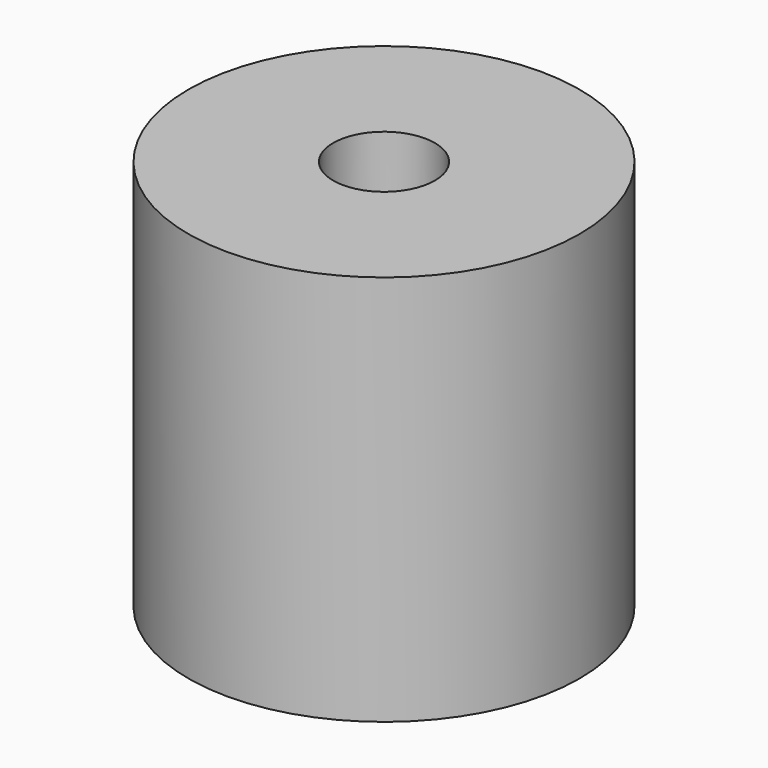
from build123d import *

# Parameters (mm, degrees)
F0_R     = 25
F1_DEPTH = 50
F2_R     = 6.5
F3_DEPTH = 50
F4_R     = 12.5
F5_DEPTH = 35


with BuildPart() as f1:
    # F0 (on Top) → F1 (new body)
    with BuildSketch(Plane.XY):
        Circle(F0_R)
    extrude(amount=F1_DEPTH)

    # F2 (on face) → F3 (cut)
    with BuildSketch(Plane.XY.offset(50)):
        Circle(F2_R)
    extrude(amount=-F3_DEPTH, mode=Mode.SUBTRACT)

    # F4 (on face) → F5 (cut)
    with BuildSketch(Plane(origin=(0, 0, 0), x_dir=(1, 0, 0), z_dir=(0, 0, -1))):
        Circle(F4_R)
    extrude(amount=-F5_DEPTH, mode=Mode.SUBTRACT)


solid = f1.part
